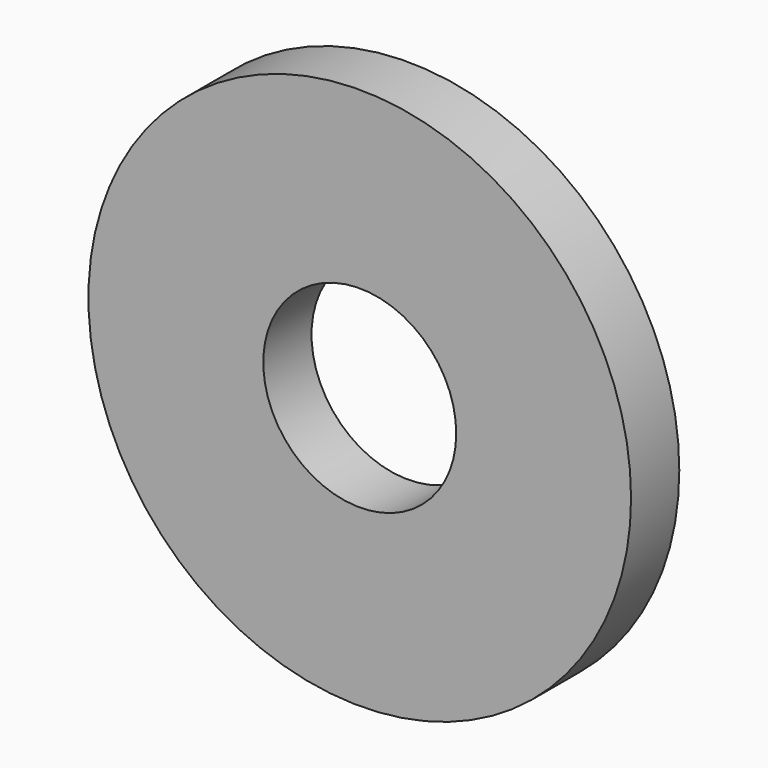
from build123d import *

# Parameters (mm, degrees)
CYLINDER018_R          = 1.6
CYLINDER018_DEPTH      = 1
CYLINDER017_R          = 4.5
CYLINDER017_DEPTH      = 1
CUT020_PLACEMENT_ANGLE = 90


with BuildPart() as facewasherscrewhole:
    # Cylinder018 → Cylinder018 (new body)
    with BuildSketch(Plane.XY):
        Circle(CYLINDER018_R)
    extrude(amount=CYLINDER018_DEPTH)


with BuildPart() as facewasher003:
    # Cylinder017 → Cylinder017 (new body)
    with BuildSketch(Plane.XY):
        Circle(CYLINDER017_R)
    extrude(amount=CYLINDER017_DEPTH)

    # Cut020: cut FaceWasherScrewHole
    add(facewasherscrewhole.part, mode=Mode.SUBTRACT)


with BuildPart() as facewasher003_1:
    # Cut020 placement: moved
    add(facewasher003.part.moved(Location((0, 0, -1))).rotate(Axis((0, 0, -1), (1, 0, 0)), CUT020_PLACEMENT_ANGLE))


with BuildPart() as facewasher003_2:
    # Clone023 placement: moved
    add(facewasher003_1.part.moved(Location((80, 3, 8))))


solid = facewasher003_2.part
